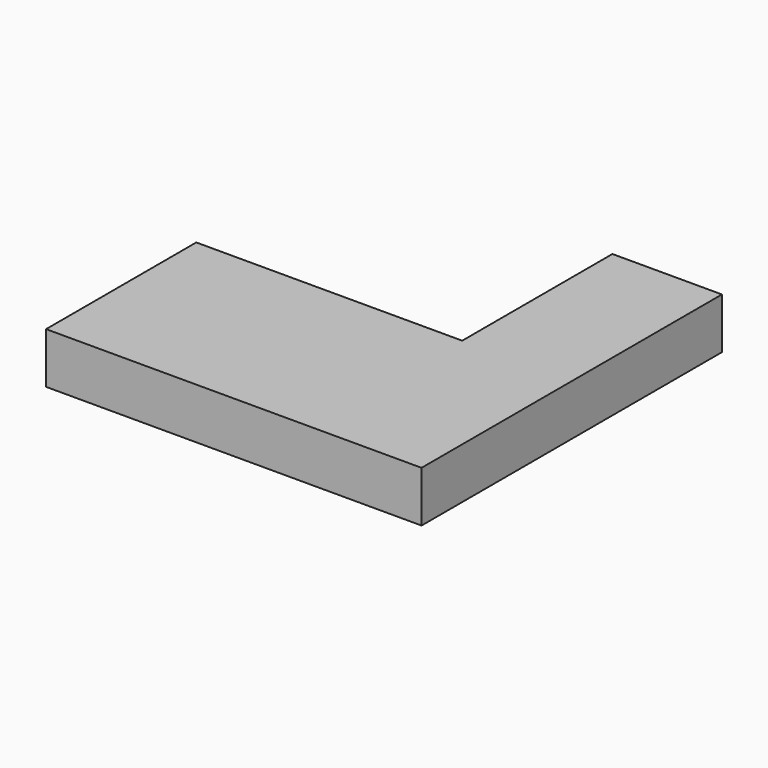
from build123d import *

# Parameters (mm, degrees)
F1_DEPTH = 1.3
F2_T     = -0.2


with BuildPart() as f1:
    # F0 (on Top) → F1 (new body)
    with BuildSketch(Plane.XY):
        Polygon((4.8, 4.8), (2, 4.8), (2, 0), (-4.8, 0), (-4.8, -4.8), (4.8, -4.8), align=None)
    extrude(amount=F1_DEPTH)

    # F2
    f2_openings = [f1.faces().sort_by_distance(p)[0] for p in [
        (0.767742, -1.316129, 0),
    ]]
    offset(amount=F2_T, openings=f2_openings, kind=Kind.INTERSECTION)


solid = f1.part
